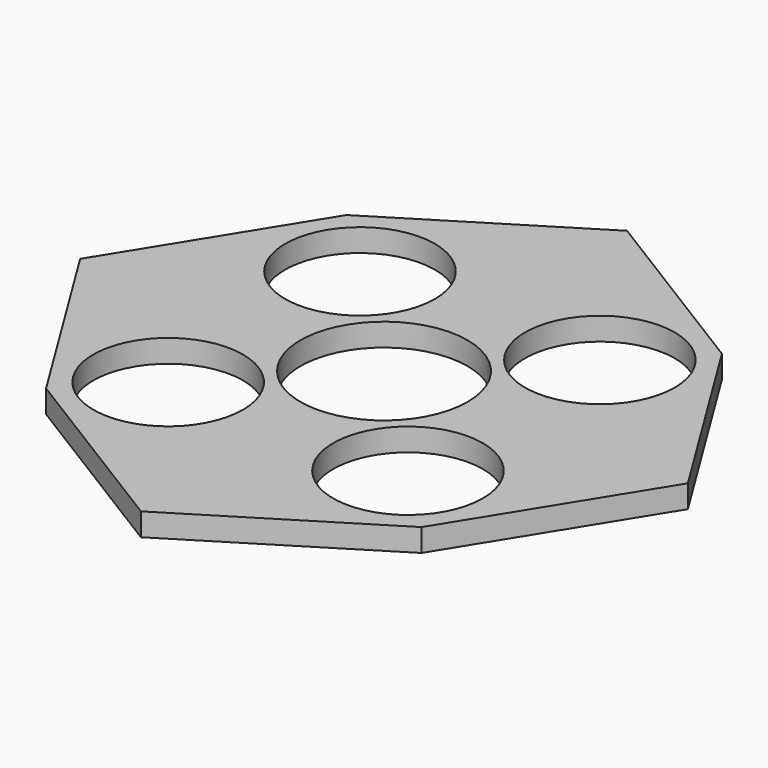
from build123d import *

# Parameters (mm, degrees)
F0_R     = 9.85
F0_R_2   = 11
F1_DEPTH = 3


with BuildPart() as f1:
    # F0 (on Top) → F1 (new body)
    with BuildSketch(Plane.XY):
        Polygon((24.715097, 24.715097), (0, 40), (-24.715097, 24.715097), (-40, 0), (-24.715097, -24.715097), (0, -40), (24.715097, -24.715097), (40, 0), align=None)
        with Locations((-15.78759, -15.78759)):
            Circle(F0_R, mode=Mode.SUBTRACT)
        with Locations((15.78759, -15.78759)):
            Circle(F0_R, mode=Mode.SUBTRACT)
        with Locations((-15.78759, 15.78759)):
            Circle(F0_R, mode=Mode.SUBTRACT)
        Circle(F0_R_2, mode=Mode.SUBTRACT)
        with Locations((15.78759, 15.78759)):
            Circle(F0_R, mode=Mode.SUBTRACT)
    extrude(amount=F1_DEPTH)


solid = f1.part
